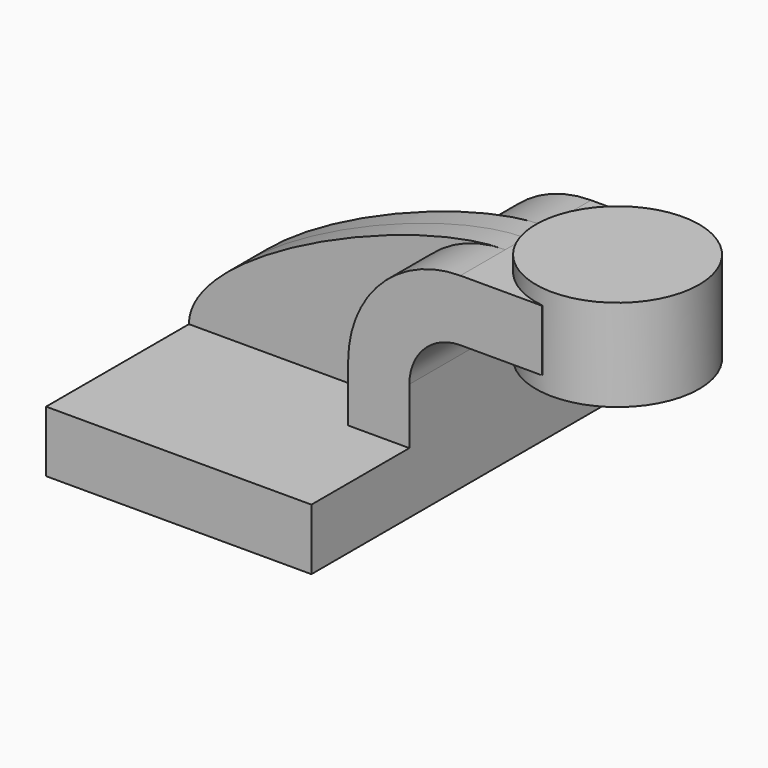
from build123d import *

# Parameters (mm, degrees)
F1_DEPTH = 63.5
F0_W     = 22.195993
F0_H     = 19.05
F2_DEPTH = 25.4
F3_DEPTH = 7.9375
F0_W_2   = 25.4
F0_H_2   = 28.575


with BuildPart() as f1:
    # F0 (on Front) → F1 (new body, symmetric)
    with BuildSketch(Plane.XZ):
        Polygon((41.275, -9.525), (41.275, 9.525), (22.225, 9.525), (-41.275, 9.525), (-41.275, -9.525), align=None)
    extrude(amount=F1_DEPTH, both=True)

    # F0 (on Front) → F2 (join, symmetric)
    with BuildSketch(Plane.XZ):
        with BuildLine():
            Line((22.225, 9.525), (41.275, 9.525))
            Line((41.275, 9.525), (41.275, 27.0002))
            ThreePointArc((41.275, 27.0002), (45.92468, 38.22552), (57.15, 42.8752))
            Line((57.15, 42.8752), (60.325, 42.8752))
            Line((60.325, 42.8752), (60.325, 61.9252))
            Line((60.325, 61.9252), (57.15, 61.9252))
            ThreePointArc((57.15, 61.9252), (32.454296, 51.695904), (22.225, 27.0002))
            Line((22.225, 27.0002), (22.225, 9.525))
        make_face()
        with Locations((71.422996, 52.4002)):
            Rectangle(F0_W, F0_H)
    extrude(amount=F2_DEPTH, both=True)

    # F0 (on Front) → F3 (join, symmetric)
    with BuildSketch(Plane.XZ):
        with BuildLine():
            Line((-41.275, 9.525), (22.225, 9.525))
            Line((22.225, 9.525), (22.225, 27.0002))
            ThreePointArc((22.225, 27.0002), (32.454296, 51.695904), (57.15, 61.9252))
            add(Edge.make_bspline(
                [(-41.275, 9.525), (-41.22147, 31.626377), (27.588112, 61.989266), (57.15, 61.9252)],
                knots=[0, 0, 0, 0, 111.504536, 111.504536, 111.504536, 111.504536], degree=3))
        make_face()
    extrude(amount=F3_DEPTH, both=True)

    # F0 (on Front) → F4 (revolve)
    with BuildSketch(Plane.XZ):
        with Locations((98.425, 52.3875)):
            Rectangle(F0_W_2, F0_H_2)
    revolve(axis=Axis((85.725, 0, 52.3875), (0, 0, -1)))


solid = f1.part
